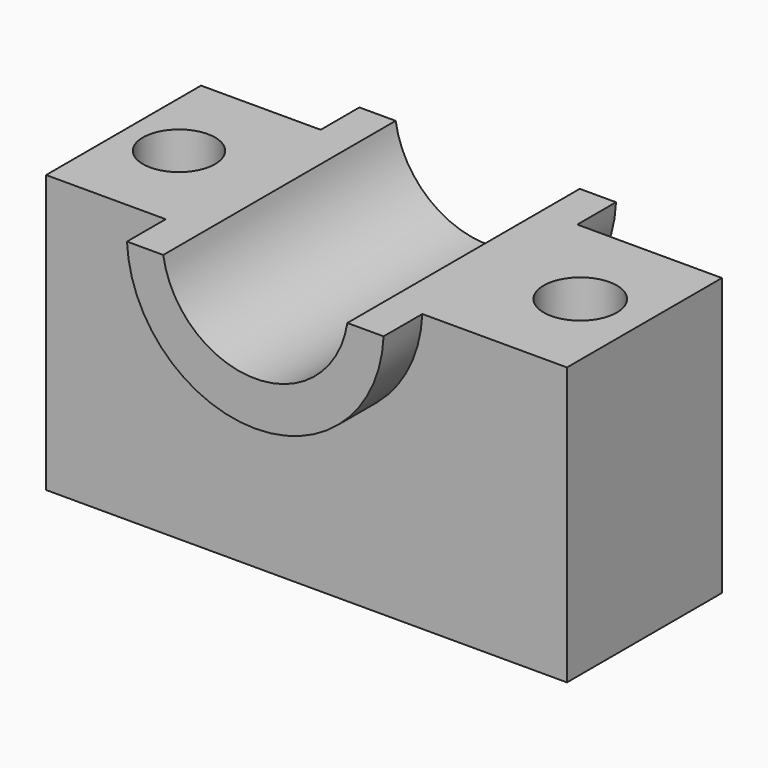
from build123d import *

# Parameters (mm, degrees)
F0_W          = 136.6302669048
F0_H          = 117.5191476941
F1_DEPTH      = 25.4
F1_DEPTH_BACK = 25.4
F2_R          = 33.6837672498
F3_DEPTH      = 38.1
F3_DEPTH_BACK = 38.1
F4_R          = 24.4259968854
F5_DEPTH      = 38.101
F5_DEPTH_BACK = 38.101
F6_W          = 151.7480313778
F6_H          = 49.3466332555
F7_DEPTH      = 38.101
F7_DEPTH_BACK = 38.101
F8_R          = 9.4700300279
F8_R_2        = 9.6065127636
F9_DEPTH      = 56.6212700138
F9_DEPTH_BACK = 16.1170975695


with BuildPart() as f1:
    # F0 (on Front) → F1 (new body, two sides)
    with BuildSketch(Plane.XZ) as f1_sk:
        with Locations((3.2802671194, 2.1393038332)):
            Rectangle(F0_W, F0_H)
    extrude(amount=F1_DEPTH)
    extrude(f1_sk.sketch, amount=-F1_DEPTH_BACK)

    # F2 (on Front) → F3 (join, two sides)
    with BuildSketch(Plane.XZ) as f3_sk:
        with Locations((0, 17.5422988832)):
            Circle(F2_R)
    extrude(amount=F3_DEPTH)
    extrude(f3_sk.sketch, amount=-F3_DEPTH_BACK)

    # F4 (on Front) → F5 (cut, two sides)
    with BuildSketch(Plane.XZ) as f5_sk:
        with Locations((0, 19.8242235929)):
            Circle(F4_R)
    extrude(amount=-F5_DEPTH, mode=Mode.SUBTRACT)
    extrude(f5_sk.sketch, amount=F5_DEPTH_BACK, mode=Mode.SUBTRACT)

    # F6 (on Front) → F7 (cut, two sides)
    with BuildSketch(Plane.XZ) as f7_sk:
        with Locations((0, 40.7894141972)):
            Rectangle(F6_W, F6_H)
    extrude(amount=-F7_DEPTH, mode=Mode.SUBTRACT)
    extrude(f7_sk.sketch, amount=F7_DEPTH_BACK, mode=Mode.SUBTRACT)

    # F8 (on Top) → F9 (cut, two sides)
    with BuildSketch(Plane.XY) as f9_sk:
        with Locations((-50.4875965416, 0)):
            Circle(F8_R)
        with Locations((54.7662004828, 0)):
            Circle(F8_R_2)
    extrude(amount=-F9_DEPTH, mode=Mode.SUBTRACT)
    extrude(f9_sk.sketch, amount=F9_DEPTH_BACK, mode=Mode.SUBTRACT)


solid = f1.part
